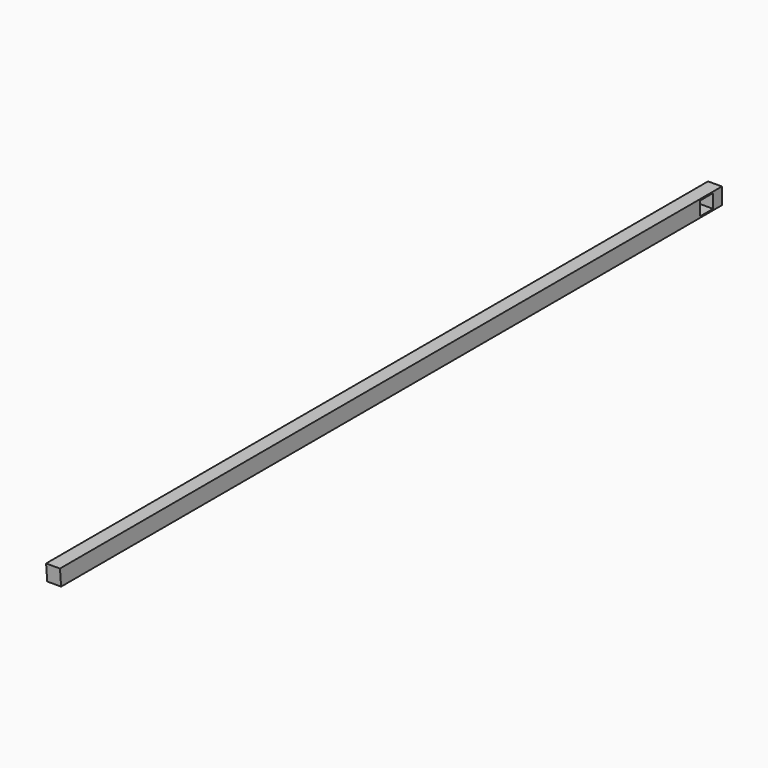
from build123d import *

# Parameters (mm, degrees)
F0_W     = 63
F0_H     = 75
F1_DEPTH = 3757
F3_DEPTH = 63.001
F4_W     = 75
F4_H     = 63
F5_DEPTH = 63.001


with BuildPart() as f1:
    # F0 (on Front) → F1 (new body)
    with BuildSketch(Plane.XZ):
        Rectangle(F0_W, F0_H)
    extrude(amount=F1_DEPTH)

    # F2 (on face) → F3 (cut, through all)
    with BuildSketch(Plane(origin=(-31.5, 0, 0), x_dir=(0, -1, 0), z_dir=(-1, 0, 0))):
        Polygon((3757, -37.5), (3757, 37.5), (3750.43835, -37.5), align=None)
    extrude(amount=-F3_DEPTH, mode=Mode.SUBTRACT)

    # F4 (on face) → F5 (cut, through all)
    with BuildSketch(Plane.YZ.offset(31.5)):
        with Locations((-87.5, 0)):
            Rectangle(F4_W, F4_H)
    extrude(amount=-F5_DEPTH, mode=Mode.SUBTRACT)


solid = f1.part
